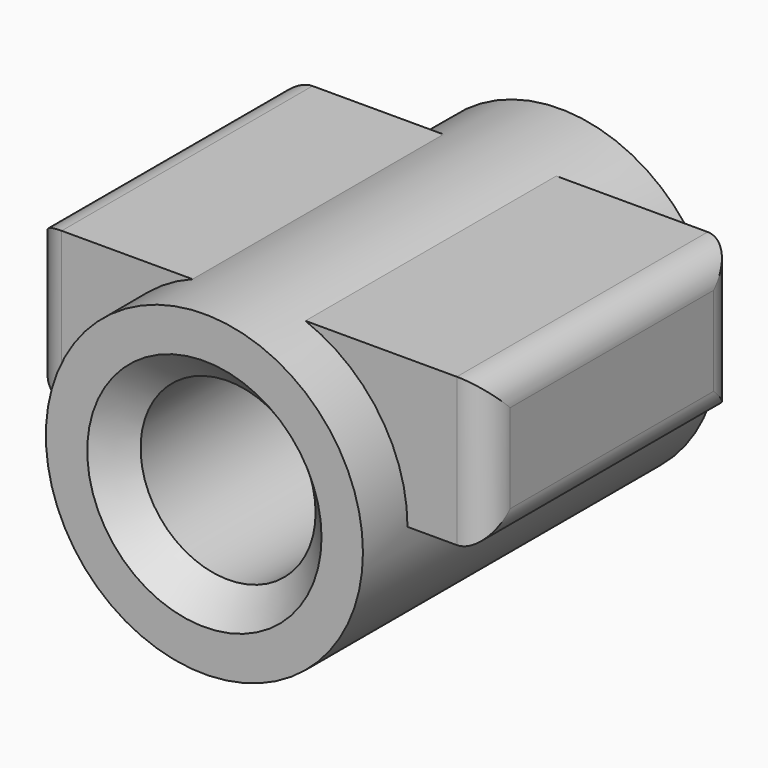
from build123d import *

# Parameters (mm, degrees)
F1_W     = 77.895202
F1_H     = 53.751212
F2_DEPTH = 25.4
F0_R     = 27.177432
F3_DEPTH = 38.1
F4_R     = 5.08
F5_R     = 14.999896
F6_DEPTH = 76.201
F7_SIZE  = 5.08


with BuildPart() as f2:
    # F1 (on Top) → F2 (new body)
    with BuildSketch(Plane.XY):
        with Locations((1.762334, -1.674218)):
            Rectangle(F1_W, F1_H)
    extrude(amount=F2_DEPTH)

    # F0 (on Front) → F3 (join, symmetric)
    with BuildSketch(Plane.XZ):
        Circle(F0_R)
    extrude(amount=F3_DEPTH, both=True)

    # F4
    f4_edges = [f2.edges().sort_by_distance(p)[0] for p in [
        (40.709935, -28.549824, 12.7),
        (40.709935, 25.201388, 12.7),
        (40.709935, -1.674218, 0),
        (40.709935, -1.674218, 25.4),
        (-37.185267, 25.201388, 12.7),
        (-37.185267, -28.549824, 12.7),
        (-37.185267, -1.674218, 0),
        (-37.185267, -1.674218, 25.4),
    ]]
    fillet(f4_edges, radius=F4_R)

    # F5 (on face) → F6 (cut, through all)
    with BuildSketch(Plane.XZ.offset(38.1)):
        Circle(F5_R)
    extrude(amount=-F6_DEPTH, mode=Mode.SUBTRACT)

    # F7
    f7_edges = [f2.edges().sort_by_distance(p)[0] for p in [
        (-14.999896, -38.1, 0),
        (-14.999896, 38.1, 0),
    ]]
    chamfer(f7_edges, length=F7_SIZE)


solid = f2.part
